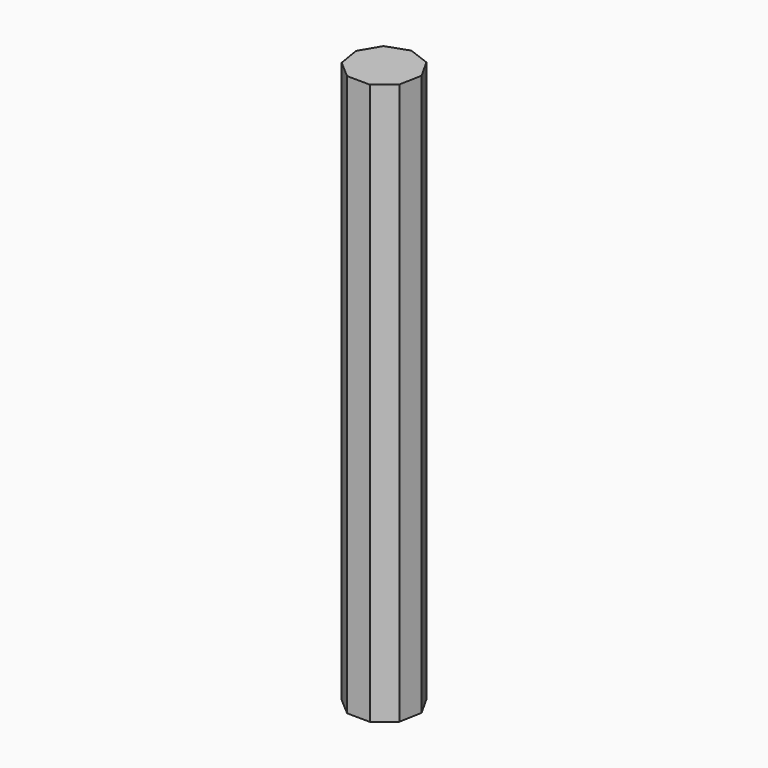
from build123d import *

# Parameters (mm, degrees)
F1_DEPTH = 80
F2_R     = 1.65
F3_DEPTH = 15


with BuildPart() as f1:
    # F0 (on Top) → F1 (new body)
    with BuildSketch(Plane.XY):
        Polygon((4.725528, 0.775881), (3.121238, 3.63187), (0.056486, 4.788467), (-3.034697, 3.704487), (-4.705911, 0.887136), (-4.175177, -2.345315), (-1.690831, -4.480368), (1.584673, -4.519006), (4.118691, -2.443151), align=None)
    extrude(amount=F1_DEPTH)

    # F2 (on face) → F3 (cut)
    with BuildSketch(Plane(origin=(0, 0, 0), x_dir=(1, 0, 0), z_dir=(0, 0, -1))):
        Circle(F2_R)
    extrude(amount=-F3_DEPTH, mode=Mode.SUBTRACT)


solid = f1.part
